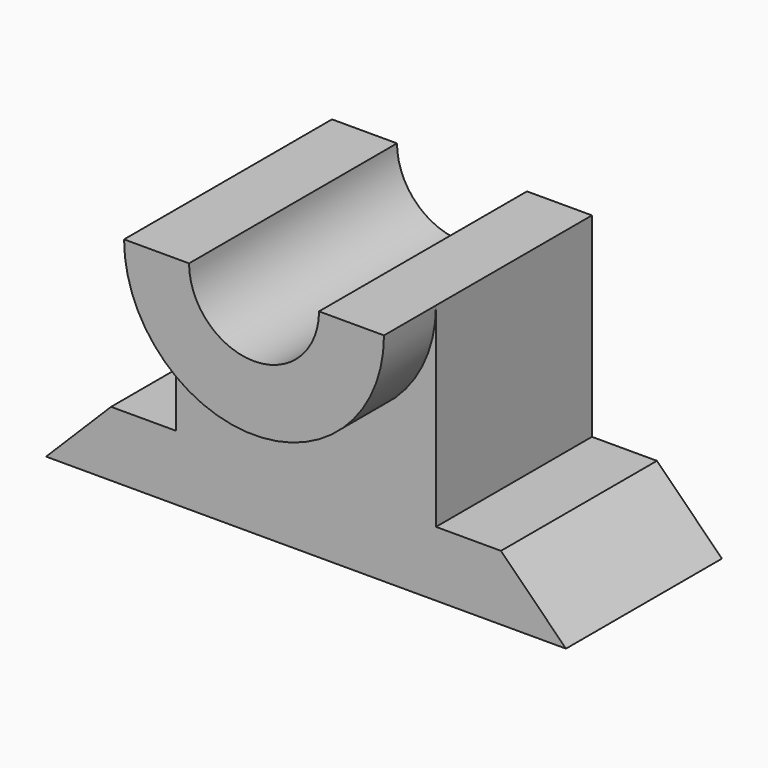
from build123d import *

# Parameters (mm, degrees)
F1_DEPTH = 30
F3_DEPTH = 10


with BuildPart() as f1:
    # F0 (on Front) → F1 (new body)
    with BuildSketch(Plane.XZ):
        with BuildLine():
            Line((-30, 10), (-40, 0))
            Line((-40, 0), (40, 0))
            Line((40, 0), (30, 10))
            Line((30, 10), (20, 10))
            Line((20, 10), (20, 40))
            Line((20, 40), (10, 40))
            ThreePointArc((10, 40), (0, 30), (-10, 40))
            Line((-10, 40), (-20, 40))
            Line((-20, 40), (-20, 10))
            Line((-20, 10), (-30, 10))
        make_face()
    extrude(amount=F1_DEPTH)

    # F2 (on face) → F3 (join)
    with BuildSketch(Plane.XZ.offset(30)):
        with BuildLine():
            Line((-10, 40), (-20, 40))
            ThreePointArc((-20, 40), (0, 20), (20, 40))
            Line((20, 40), (10, 40))
            ThreePointArc((10, 40), (0, 30), (-10, 40))
        make_face()
    extrude(amount=F3_DEPTH)


solid = f1.part
